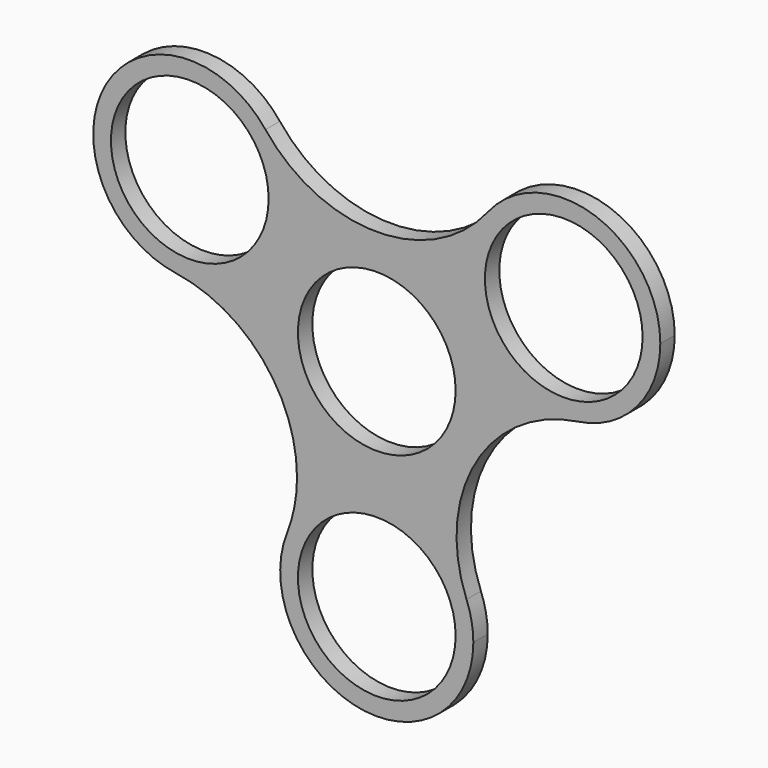
from build123d import *

# Parameters (mm, degrees)
F0_R     = 11.125
F1_DEPTH = 2.54


with BuildPart() as f1:
    # F0 (on Front) → F1 (new body)
    with BuildSketch(Plane.XZ):
        with BuildLine():
            ThreePointArc((28.367219, 1.753101), (14.584829, 8.420555), (15.701839, 23.690181))
            ThreePointArc((15.701839, 23.690181), (0, 16.094163), (-15.701839, 23.690181))
            ThreePointArc((-15.701839, 23.690181), (-13.516036, 19.710241), (-12.759425, 15.233055))
            ThreePointArc((-12.759425, 15.233055), (-17.478667, 4.921503), (-28.367219, 1.753101))
            ThreePointArc((-28.367219, 1.753101), (-16.125162, -4.970298), (-11.254877, -18.060461))
            ThreePointArc((-11.254877, -18.060461), (-11.610663, -21.818638), (-12.66538, -25.443283))
            ThreePointArc((-12.66538, -25.443283), (0, -16.84111), (12.665379, -25.443283))
            ThreePointArc((12.665379, -25.443283), (13.937954, -8.047082), (28.367219, 1.753101))
        make_face()
        Circle(F0_R, mode=Mode.SUBTRACT)
        with BuildLine():
            ThreePointArc((-12.759425, 15.233055), (-13.516036, 19.710241), (-15.701839, 23.690181))
            ThreePointArc((-15.701839, 23.690181), (-38.184021, 22.045555), (-28.367219, 1.753101))
            ThreePointArc((-28.367219, 1.753101), (-17.478667, 4.921503), (-12.759425, 15.233055))
        make_face()
        with Locations((-26.384425, 15.233055)):
            Circle(F0_R, mode=Mode.SUBTRACT)
        with BuildLine():
            ThreePointArc((28.367219, 1.753101), (36.695976, 6.327296), (40.009425, 15.233055))
            ThreePointArc((40.009425, 15.233055), (30.861611, 28.101443), (15.701839, 23.690181))
            ThreePointArc((15.701839, 23.690181), (14.584829, 8.420555), (28.367219, 1.753101))
        make_face()
        with Locations((26.384425, 15.233055)):
            Circle(F0_R, mode=Mode.SUBTRACT)
        with BuildLine():
            ThreePointArc((13.625, -30.46611), (13.382945, -27.909273), (12.665379, -25.443283))
            ThreePointArc((12.665379, -25.443283), (0, -16.84111), (-12.66538, -25.443283))
            ThreePointArc((-12.66538, -25.443283), (-2.556837, -43.849054), (13.625, -30.46611))
        make_face()
        with Locations((0, -30.46611)):
            Circle(F0_R, mode=Mode.SUBTRACT)
    extrude(amount=F1_DEPTH)


solid = f1.part
